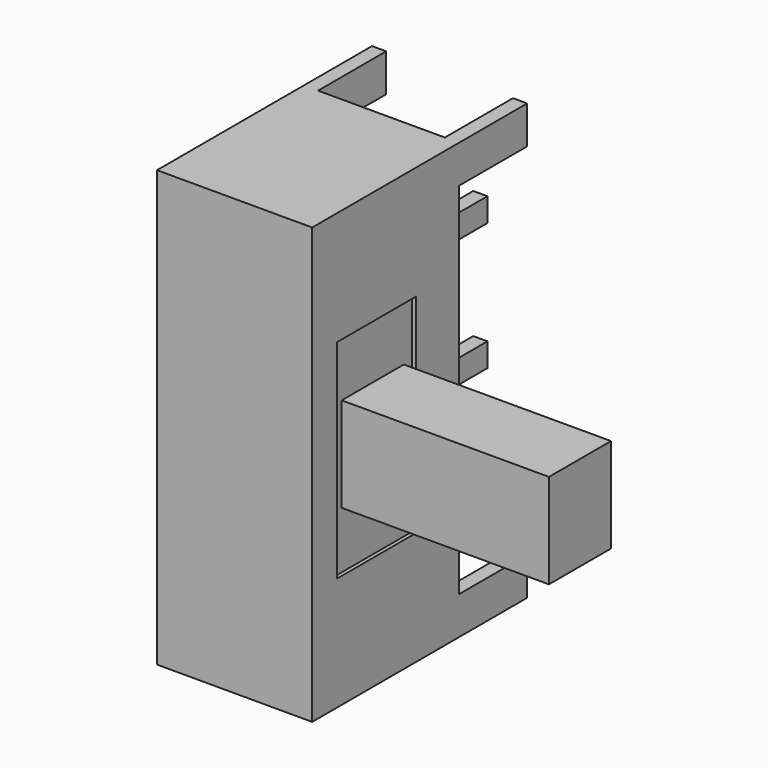
from build123d import *

# Parameters (mm, degrees)
F0_W      = 8.2
F0_H      = 23
F1_DEPTH  = 9.7
F2_W      = 5.2
F2_H      = 11
F2_W_2    = 4.1
F2_H_2    = 5
F3_DEPTH  = 0.2
F3_FACE_W = 4.1
F3_FACE_H = 5
F4_DEPTH  = 10.75
F5_W      = 0.75
F5_H      = 2
F5_H_2    = 1.25
F6_DEPTH  = 4.5


with BuildPart() as f1:
    # F0 (on Front) → F1 (new body)
    with BuildSketch(Plane.XZ):
        Rectangle(F0_W, F0_H)
    extrude(amount=F1_DEPTH)

    # F2 (on face) → F3 (cut)
    with BuildSketch(Plane.YZ.offset(4.1)):
        with Locations((-5.45, 0)):
            Rectangle(F2_W, F2_H)
        with Locations((-5.45, 0)):
            Rectangle(F2_W_2, F2_H_2, mode=Mode.SUBTRACT)
    extrude(amount=-F3_DEPTH, mode=Mode.SUBTRACT)

    # F3_face (on face) → F4 (join)
    with BuildSketch(Plane(origin=(4.1, -5.45, 0), x_dir=(0, 1, 0), z_dir=(1, 0, 0))):
        Rectangle(F3_FACE_W, F3_FACE_H)
    extrude(amount=F4_DEPTH)

    # F5 (on face) → F6 (join)
    with BuildSketch(Plane(origin=(0, 0, 0), x_dir=(-1, 0, 0), z_dir=(0, 1, 0))):
        with Locations((-3.725, 10.5)):
            Rectangle(F5_W, F5_H)
        with Locations((3.725, 10.5)):
            Rectangle(F5_W, F5_H)
        with Locations((3.725, -10.5)):
            Rectangle(F5_W, F5_H)
        with Locations((-3.725, -10.5)):
            Rectangle(F5_W, F5_H)
        with Locations((-1.625, -7.375)):
            Rectangle(F5_W, F5_H_2)
        with Locations((1.625, -7.375)):
            Rectangle(F5_W, F5_H_2)
        with Locations((1.625, -4.125)):
            Rectangle(F5_W, F5_H_2)
        with Locations((-1.625, -4.125)):
            Rectangle(F5_W, F5_H_2)
        with Locations((-1.625, -0.875)):
            Rectangle(F5_W, F5_H_2)
        with Locations((1.625, -0.875)):
            Rectangle(F5_W, F5_H_2)
        with Locations((1.625, 5.875)):
            Rectangle(F5_W, F5_H_2)
        with Locations((-1.625, 5.875)):
            Rectangle(F5_W, F5_H_2)
    extrude(amount=F6_DEPTH)


solid = f1.part
